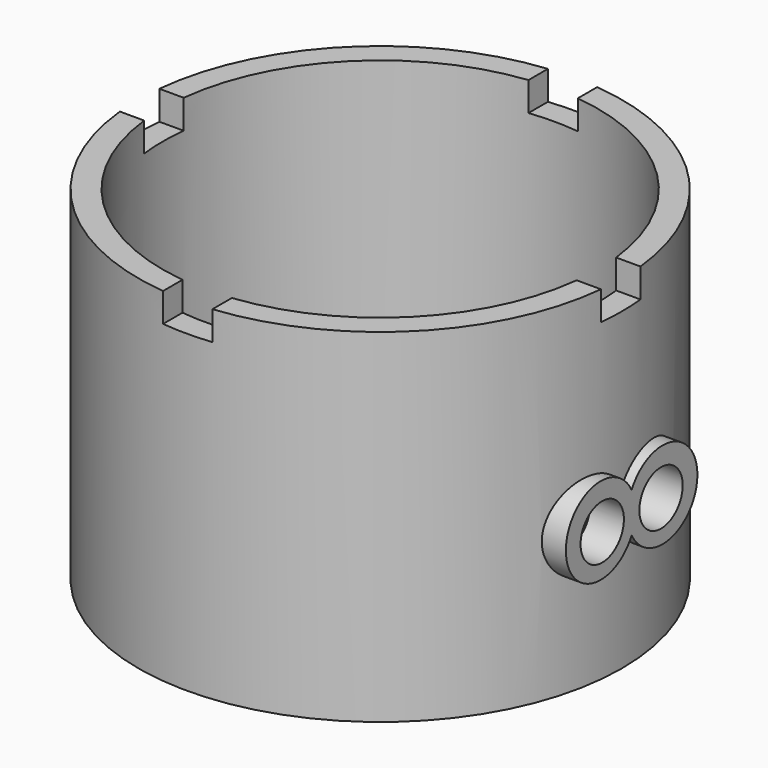
from build123d import *

# Parameters (mm, degrees)
F0_R      = 50
F1_DEPTH  = 71
F2_R      = 45
F3_DEPTH  = 65
F4_W      = 10.2
F4_H      = 6
F5_DEPTH  = 50
F6_W      = 10.2
F6_H      = 6
F7_DEPTH  = 50
F8_W      = 10.2
F8_H      = 6
F9_DEPTH  = 50
F10_W     = 10.2
F10_H     = 6
F11_DEPTH = 50
F12_R     = 5.6
F13_DEPTH = 55
F14_R     = 5.6
F15_DEPTH = 56
F17_DEPTH = 52
F18_DEPTH = 55
F19_R     = 45
F20_DEPTH = 50


with BuildPart() as f1:
    # F0 (on Top) → F1 (new body)
    with BuildSketch(Plane.XY):
        Circle(F0_R)
    extrude(amount=F1_DEPTH)

    # F2 (on face) → F3 (cut)
    with BuildSketch(Plane.XY.offset(71)):
        Circle(F2_R)
    extrude(amount=-F3_DEPTH, mode=Mode.SUBTRACT)

    # F4 (on Front) → F5 (cut)
    with BuildSketch(Plane.XZ):
        with Locations((0, 68)):
            Rectangle(F4_W, F4_H)
    extrude(amount=-F5_DEPTH, mode=Mode.SUBTRACT)

    # F6 (on Front) → F7 (cut)
    with BuildSketch(Plane.XZ):
        with Locations((0, 68)):
            Rectangle(F6_W, F6_H)
    extrude(amount=F7_DEPTH, mode=Mode.SUBTRACT)

    # F8 (on Right) → F9 (cut)
    with BuildSketch(Plane.YZ):
        with Locations((0, 68)):
            Rectangle(F8_W, F8_H)
    extrude(amount=-F9_DEPTH, mode=Mode.SUBTRACT)

    # F10 (on Right) → F11 (cut)
    with BuildSketch(Plane.YZ):
        with Locations((0, 68)):
            Rectangle(F10_W, F10_H)
    extrude(amount=F11_DEPTH, mode=Mode.SUBTRACT)

    # F12 (on Right) → F13 (cut)
    with BuildSketch(Plane.YZ):
        with Locations((0, 21.6)):
            Circle(F12_R)
    extrude(amount=-F13_DEPTH, mode=Mode.SUBTRACT)

    # F14 (on Right) → F15 (cut)
    with BuildSketch(Plane.YZ):
        with Locations((-7.6, 28.6)):
            Circle(F14_R)
        with Locations((7.6, 28.6)):
            Circle(F14_R)
    extrude(amount=F15_DEPTH, mode=Mode.SUBTRACT)

    # F16 (on Right) → F17 (join)
    with BuildSketch(Plane.YZ):
        with BuildLine():
            ThreePointArc((0, 24.8768943744), (0.7464278423, 26.8786796564), (1, 29))
            ThreePointArc((1, 29), (0.7464278423, 31.1213203436), (0, 33.1231056256))
            ThreePointArc((0, 33.1231056256), (-1, 29), (0, 24.8768943744))
        make_face()
        with BuildLine():
            ThreePointArc((0, 33.1231056256), (0.7464278423, 31.1213203436), (1, 29))
            ThreePointArc((1, 29), (0.7464278423, 26.8786796564), (0, 24.8768943744))
            ThreePointArc((0, 24.8768943744), (10.1213203436, 20.2535721577), (17, 29))
            ThreePointArc((17, 29), (10.1213203436, 37.7464278423), (0, 33.1231056256))
        make_face()
        with BuildLine():
            ThreePointArc((0, 24.8768943744), (-1, 29), (0, 33.1231056256))
            ThreePointArc((0, 33.1231056256), (-17, 29), (0, 24.8768943744))
        make_face()
    extrude(amount=F17_DEPTH)

    # F14 (on Right) → F18 (cut)
    with BuildSketch(Plane.YZ):
        with Locations((-7.6, 28.6)):
            Circle(F14_R)
        with Locations((7.6, 28.6)):
            Circle(F14_R)
    extrude(amount=F18_DEPTH, mode=Mode.SUBTRACT)

    # F19 (on face) → F20 (cut)
    with BuildSketch(Plane.XY.offset(6)):
        Circle(F19_R)
    extrude(amount=F20_DEPTH, mode=Mode.SUBTRACT)


solid = f1.part
